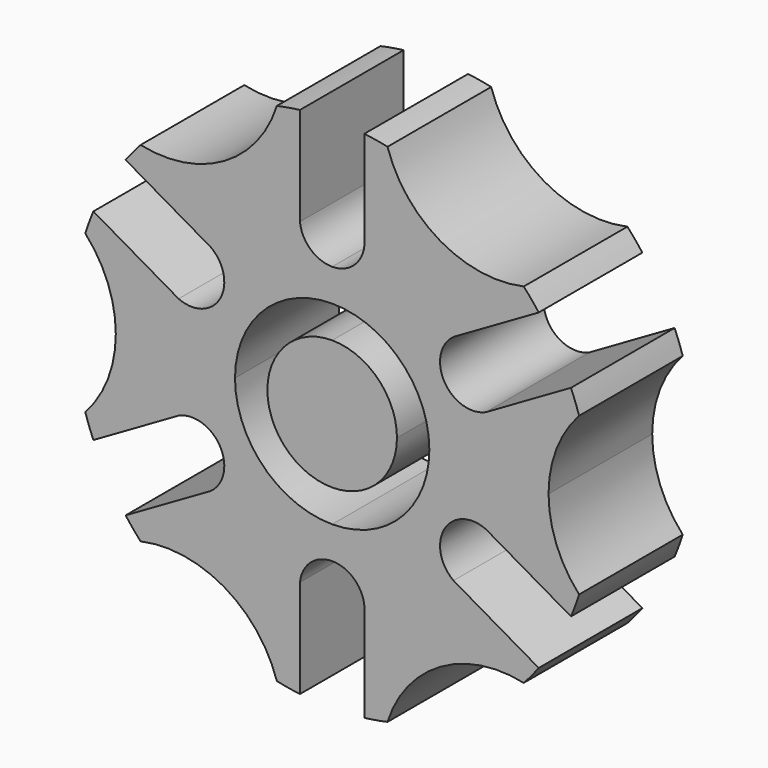
from build123d import *

# Parameters (mm, degrees)
F1_DEPTH = 25.4
F2_DEPTH = 25.4


with BuildPart() as f1:
    # F0 (on Front) → F1 (new body)
    with BuildSketch(Plane.XZ):
        with BuildLine():
            Line((42.418, 0), (19.05, 0))
            ThreePointArc((19.05, 0), (13.470384, -13.470384), (0, -19.05))
            Line((0, -19.05), (0, -25.4))
            ThreePointArc((0, -25.4), (4.259709, -27.040714), (6.31817, -31.115))
            Line((6.31817, -31.115), (6.31817, -50.405562))
            ThreePointArc((6.31817, -50.405562), (8.591082, -50.068286), (10.846417, -49.628573))
            ThreePointArc((10.846417, -49.628573), (21.209, -36.735066), (37.556396, -34.207559))
            ThreePointArc((37.556396, -34.207559), (39.064867, -32.474238), (40.493412, -30.674477))
            Line((40.493412, -30.674477), (23.787295, -21.029196))
            ThreePointArc((23.787295, -21.029196), (21.997045, -12.7), (30.105466, -10.085804))
            Line((30.105466, -10.085804), (46.811583, -19.731085))
            ThreePointArc((46.811583, -19.731085), (47.655949, -17.594048), (48.402813, -15.421014))
            ThreePointArc((48.402813, -15.421014), (43.966661, -8.270817), (42.418, 0))
        make_face()
        with BuildLine():
            ThreePointArc((0, 19.05), (13.470384, 13.470384), (19.05, 0))
            Line((19.05, 0), (42.418, 0))
            ThreePointArc((42.418, 0), (43.966661, 8.270817), (48.402813, 15.421014))
            ThreePointArc((48.402813, 15.421014), (47.655949, 17.594048), (46.811583, 19.731085))
            Line((46.811583, 19.731085), (30.105466, 10.085804))
            ThreePointArc((30.105466, 10.085804), (21.997045, 12.7), (23.787295, 21.029196))
            Line((23.787295, 21.029196), (40.493412, 30.674477))
            ThreePointArc((40.493412, 30.674477), (39.064867, 32.474238), (37.556396, 34.207559))
            ThreePointArc((37.556396, 34.207559), (21.209, 36.735066), (10.846417, 49.628573))
            ThreePointArc((10.846417, 49.628573), (8.591082, 50.068286), (6.31817, 50.405562))
            Line((6.31817, 50.405562), (6.31817, 31.115))
            ThreePointArc((6.31817, 31.115), (4.259709, 27.040714), (0, 25.4))
            Line((0, 25.4), (0, 19.05))
        make_face()
        with BuildLine():
            ThreePointArc((-19.05, 0), (-13.470384, 13.470384), (0, 19.05))
            Line((0, 19.05), (0, 25.4))
            ThreePointArc((0, 25.4), (-4.259709, 27.040714), (-6.31817, 31.115))
            Line((-6.31817, 31.115), (-6.31817, 50.405562))
            ThreePointArc((-6.31817, 50.405562), (-8.591082, 50.068286), (-10.846417, 49.628573))
            ThreePointArc((-10.846417, 49.628573), (-21.209, 36.735066), (-37.556396, 34.207559))
            ThreePointArc((-37.556396, 34.207559), (-39.064867, 32.474238), (-40.493412, 30.674477))
            Line((-40.493412, 30.674477), (-23.787295, 21.029196))
            ThreePointArc((-23.787295, 21.029196), (-21.997045, 12.7), (-30.105466, 10.085804))
            Line((-30.105466, 10.085804), (-46.811583, 19.731085))
            ThreePointArc((-46.811583, 19.731085), (-47.655949, 17.594048), (-48.402813, 15.421014))
            ThreePointArc((-48.402813, 15.421014), (-43.966661, 8.270817), (-42.418, 0))
            Line((-42.418, 0), (-19.05, 0))
        make_face()
        with BuildLine():
            Line((0, -25.4), (0, -19.05))
            ThreePointArc((0, -19.05), (-13.470384, -13.470384), (-19.05, 0))
            Line((-19.05, 0), (-42.418, 0))
            ThreePointArc((-42.418, 0), (-43.966661, -8.270817), (-48.402813, -15.421014))
            ThreePointArc((-48.402813, -15.421014), (-47.655949, -17.594048), (-46.811583, -19.731085))
            Line((-46.811583, -19.731085), (-30.105466, -10.085804))
            ThreePointArc((-30.105466, -10.085804), (-21.997045, -12.7), (-23.787295, -21.029196))
            Line((-23.787295, -21.029196), (-40.493412, -30.674477))
            ThreePointArc((-40.493412, -30.674477), (-39.064867, -32.474238), (-37.556396, -34.207559))
            ThreePointArc((-37.556396, -34.207559), (-21.209, -36.735066), (-10.846417, -49.628573))
            ThreePointArc((-10.846417, -49.628573), (-8.591082, -50.068286), (-6.31817, -50.405562))
            Line((-6.31817, -50.405562), (-6.31817, -31.115))
            ThreePointArc((-6.31817, -31.115), (-4.259709, -27.040714), (0, -25.4))
        make_face()
    extrude(amount=F1_DEPTH)


with BuildPart() as f2:
    # F0 (on Front) → F2 (new body)
    with BuildSketch(Plane.XZ):
        with BuildLine():
            ThreePointArc((0, -12.7), (8.980256, -8.980256), (12.7, 0))
            Line((12.7, 0), (0, 0))
            Line((0, 0), (0, -12.7))
        make_face()
        with BuildLine():
            Line((0, 0), (12.7, 0))
            ThreePointArc((12.7, 0), (8.980256, 8.980256), (0, 12.7))
            Line((0, 12.7), (0, 0))
        make_face()
        with BuildLine():
            Line((0, 0), (0, 12.7))
            ThreePointArc((0, 12.7), (-8.980256, 8.980256), (-12.7, 0))
            Line((-12.7, 0), (0, 0))
        make_face()
        with BuildLine():
            ThreePointArc((-12.7, 0), (-8.980256, -8.980256), (0, -12.7))
            Line((0, -12.7), (0, 0))
            Line((0, 0), (-12.7, 0))
        make_face()
    extrude(amount=F2_DEPTH)


solid = Compound([f1.part, f2.part])
